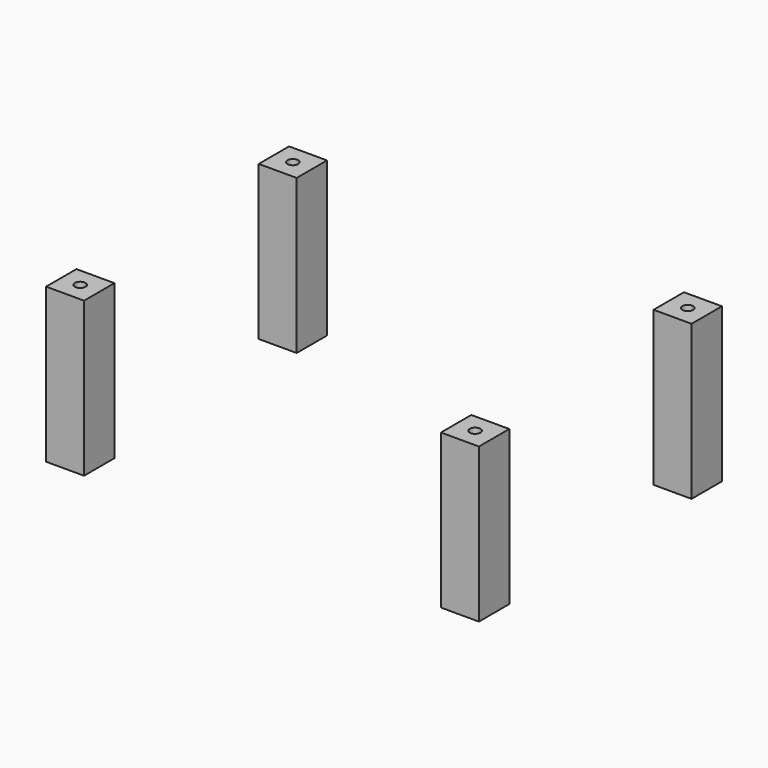
from build123d import *

# Parameters (mm, degrees)
SKETCH009_W   = 5
SKETCH009_H   = 5
SKETCH009_R   = 0.7
PAD008_DEPTH  = 20.3
ARRAY_X_COUNT = 2
ARRAY_X_PITCH = 52
ARRAY_Y_COUNT = 2
ARRAY_Y_PITCH = 35


with BuildPart() as part:
    # Sketch009 → Pad008 (new body)
    with BuildSketch(Plane.XY):
        Rectangle(SKETCH009_W, SKETCH009_H)
        Circle(SKETCH009_R, mode=Mode.SUBTRACT)
    extrude(amount=PAD008_DEPTH)


with BuildPart() as part_1:
    # Body007 placement: moved
    add(part.part.moved(Location((-36, -17.5, 0))))

    # Array X: part ×2


with BuildPart() as part_2:
    add(part_1.part)
    with Locations(*[(i * ARRAY_X_PITCH, 0, 0) for i in range(1, ARRAY_X_COUNT)]):
        add(part_1.part)

    # Array Y: part ×2


with BuildPart() as part_3:
    add(part_2.part)
    with Locations(*[(0, i * ARRAY_Y_PITCH, 0) for i in range(1, ARRAY_Y_COUNT)]):
        add(part_2.part)


solid = part_3.part
